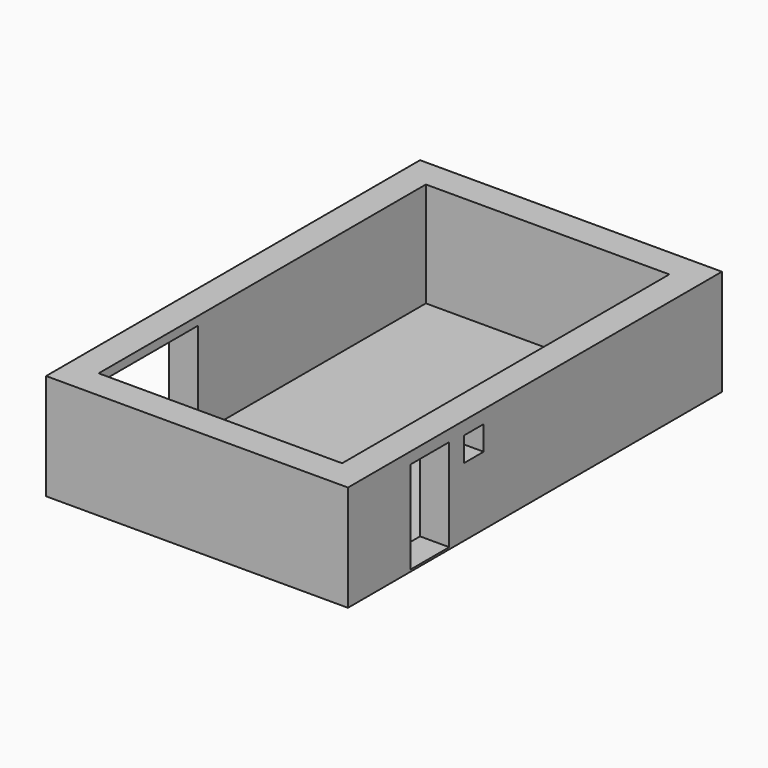
from build123d import *

# Parameters (mm, degrees)
F0_W     = 6200
F0_H     = 9600
F0_W_2   = 5000
F0_H_2   = 8400
F1_DEPTH = 2150
F2_W     = 6200
F2_H     = 9600
F3_DEPTH = 25
F4_W     = 2500
F4_H     = 1950
F5_DEPTH = 600
F6_W     = 1000
F6_H     = 1900
F6_W_2   = 500
F6_H_2   = 500
F7_DEPTH = 600


with BuildPart() as f1:
    # F0 (on Top) → F1 (new body)
    with BuildSketch(Plane.XY):
        Rectangle(F0_W, F0_H)
        Rectangle(F0_W_2, F0_H_2, mode=Mode.SUBTRACT)
    extrude(amount=F1_DEPTH)

    # F2 (on face) → F3 (join)
    with BuildSketch(Plane(origin=(0, 0, 0), x_dir=(1, 0, 0), z_dir=(0, 0, -1))):
        Rectangle(F2_W, F2_H)
    extrude(amount=F3_DEPTH)

    # F4 (on face) → F5 (cut, through all)
    with BuildSketch(Plane(origin=(-3100, 0, 0), x_dir=(0, -1, 0), z_dir=(-1, 0, 0))):
        with Locations((2900, 1000)):
            Rectangle(F4_W, F4_H)
    extrude(amount=-F5_DEPTH, mode=Mode.SUBTRACT)

    # F6 (on face) → F7 (cut, through all)
    with BuildSketch(Plane.YZ.offset(3100)):
        with Locations((-2700, 965)):
            Rectangle(F6_W, F6_H)
        with Locations((-1566.203952, 1630.924344)):
            Rectangle(F6_W_2, F6_H_2)
    extrude(amount=-F7_DEPTH, mode=Mode.SUBTRACT)


solid = f1.part
